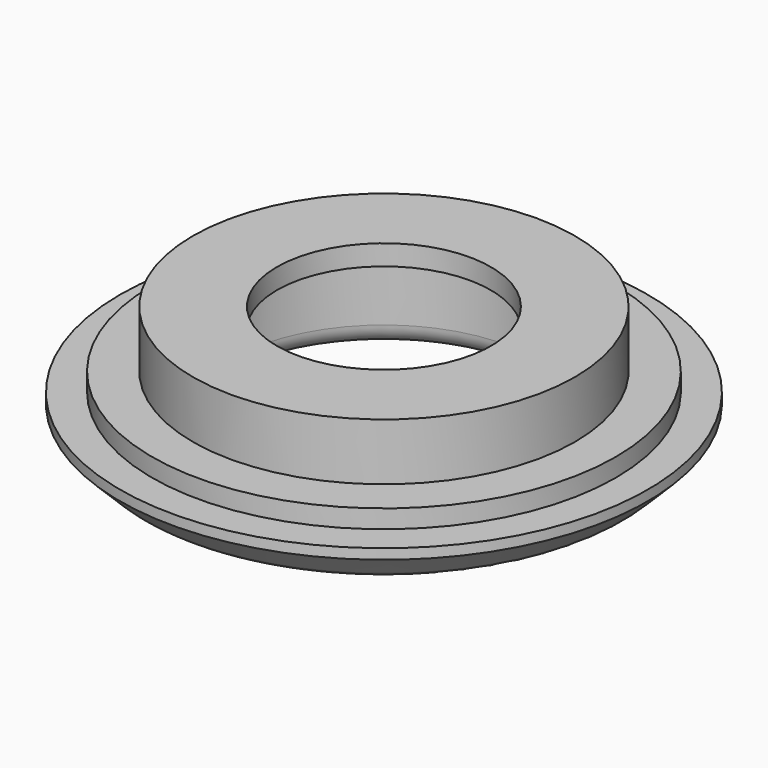
from build123d import *


with BuildPart() as f1:
    # F0 (on Front) → F1 (revolve)
    with BuildSketch(Plane.XZ):
        with BuildLine():
            Line((-22.071573, 0), (-17, 0))
            ThreePointArc((-17, 0), (-15.585786, 0.585786), (-15, 2))
            Line((-15, 2), (-15, 9.4))
            Line((-15, 9.4), (-10.5, 9.4))
            Line((-10.5, 9.4), (-10.5, 11.4))
            Line((-10.5, 11.4), (-18.75, 11.4))
            Line((-18.75, 11.4), (-18.75, 5.8))
            Line((-18.75, 5.8), (-22.75, 5.8))
            Line((-22.75, 5.8), (-22.75, 4))
            Line((-22.75, 4), (-25.9, 4))
            Line((-25.9, 4), (-25.9, 3))
            Line((-25.9, 3), (-23.485786, 0.585786))
            ThreePointArc((-23.485786, 0.585786), (-22.83694, 0.152241), (-22.071573, 0))
        make_face()
    revolve(axis=Axis((0, 0, 5.7), (0, 0, 1)))


solid = f1.part
